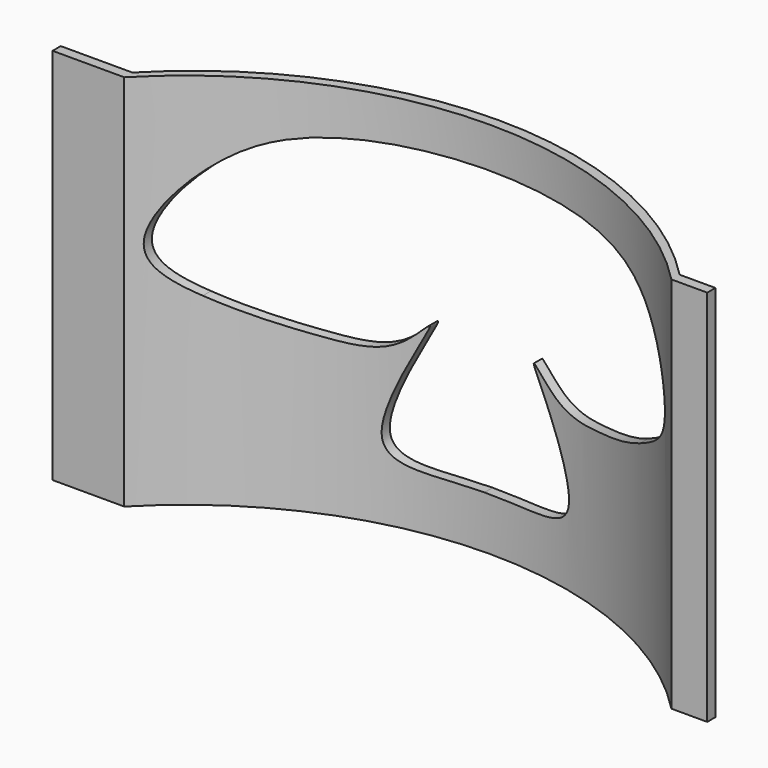
from build123d import *

# Parameters (mm, degrees)
F1_DEPTH = 117.3075886
F4_DEPTH = 86.106


with BuildPart() as f1:
    # F0 (on Top) → F1 (new body)
    with BuildSketch(Plane.XY):
        with BuildLine():
            Line((-83.1021942854, -9.7276940942), (-105.3271942854, -9.7276940942))
            Line((-105.3271942854, -9.7276940942), (-105.3271942854, -12.9026897868))
            Line((-105.3271942854, -12.9026897868), (-83.1021942854, -12.9026897868))
            ThreePointArc((-83.1021942854, -12.9026897868), (1.8290557146, 23.0383255146), (86.7603057146, -12.9026897868))
            Line((86.7603057146, -12.9026897868), (97.8728057146, -12.9026897868))
            Line((97.8728057146, -12.9026897868), (97.8728057146, -9.7276940942))
            Line((97.8728057146, -9.7276940942), (86.7603057146, -9.7276940942))
            ThreePointArc((86.7603057146, -9.7276940942), (1.8290557146, 26.2133212073), (-83.1021942854, -9.7276940942))
        make_face()
    extrude(amount=F1_DEPTH)

    # F3 (on offset) → F4 (cut)
    with BuildSketch(Plane.XZ.offset(31.496)):
        with BuildLine():
            add(Edge.make_bspline(
                [(-68.7565557485, 57.1631694998), (-77.0258010331, 61.9953987066), (-84.3701628853, 73.1239436031), (-61.5003344315, 102.6880061847), (-38.8048669448, 104.6536117325), (0.0913343748, 104.7333889276)],
                knots=[0, 0, 0, 0, 0.250690796, 0.5407409537, 1, 1, 1, 1], degree=3))
            add(Edge.make_bspline(
                [(-68.7565557485, 57.1631694998), (-60.3867761205, 52.2103111324), (-43.9073172992, 47.6997502972), (-25.0331070758, 46.5533686385), (-8.6311226444, 66.9359271585), (-42.0245428695, 13.8992212603), (-14.8885830158, 16.3226102486), (-0.0192499342, 16.2817591958)],
                knots=[0, 0, 0, 0, 0.2144584833, 0.3961821934, 0.52935432, 0.7750656265, 1, 1, 1, 1], degree=3))
            add(Edge.make_bspline(
                [(60.9070584178, 55.9285879135), (53.1086147855, 51.3401094263), (41.3588523994, 48.240581314), (24.8041498986, 46.7923751693), (8.6888713441, 67.0108331265), (41.715214865, 13.7628258947), (15.403623114, 16.2855668448), (-0.0192499342, 16.2817591958)],
                knots=[0, 0, 0, 0, 0.1995245643, 0.3737062407, 0.5118354427, 0.7666928785, 1, 1, 1, 1], degree=3))
            add(Edge.make_bspline(
                [(60.9070584178, 55.9285879135), (70.0805771694, 61.2585139402), (85.4270807854, 72.6304705219), (63.2741900218, 103.9683000283), (38.1185948261, 104.5603077664), (0.0913343748, 104.7333889276)],
                knots=[0, 0, 0, 0, 0.2776998927, 0.5509970913, 1, 1, 1, 1], degree=3))
        make_face()
    extrude(amount=-F4_DEPTH, mode=Mode.SUBTRACT)


solid = f1.part
